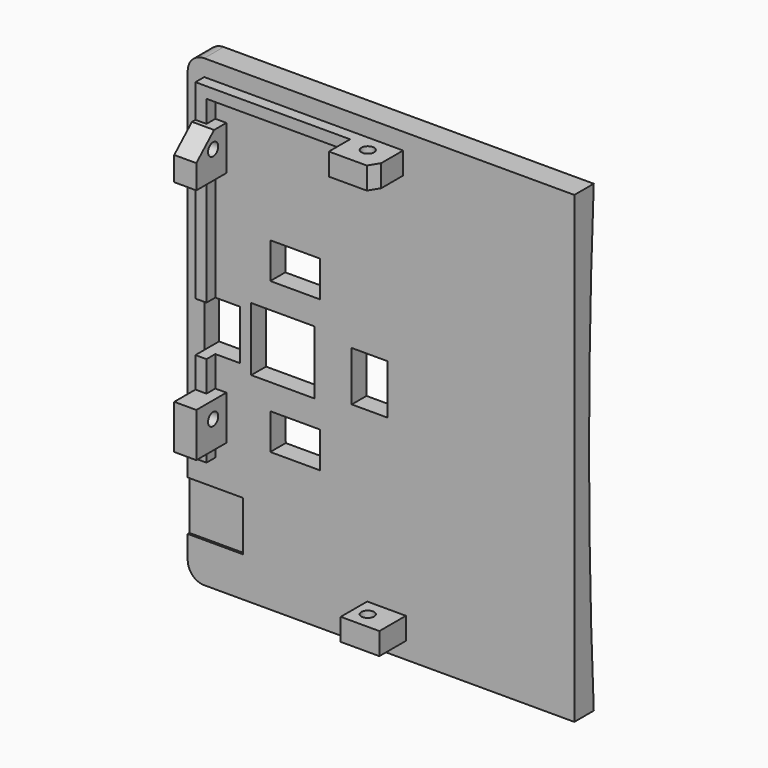
from build123d import *

# Parameters (mm, degrees)
SKETCH009_W             = 84
SKETCH009_H             = 70
PAD002_DEPTH            = 2
SKETCH010_W             = 2
SKETCH010_H             = 7
PAD003_DEPTH            = 2
SKETCH012_W             = 8
SKETCH012_H             = 6.8
PAD004_DEPTH            = 4
SKETCH013_W             = 7
SKETCH013_H             = 6
PAD005_DEPTH            = 4
SKETCH011_W             = 8
SKETCH011_H             = 6.8
PAD006_DEPTH            = 4
SKETCH014_R             = 1.15
POCKET002_DEPTH         = 81.001
SKETCH016_R             = 1.15
POCKET003_DEPTH         = 8.501
SKETCH018_W             = 11.5
SKETCH018_H             = 11.5
POCKET004_DEPTH         = 5
POCKET005_DEPTH         = 5
POCKET006_DEPTH         = 5
SKETCH022_W             = 9
SKETCH022_H             = 10
POCKET007_DEPTH         = 0.4
FILLET_R                = 3
BODY002_PITCH_ANGLE     = -90
BODY002_PLACEMENT_ANGLE = 90
PAD001_DEPTH            = 35
SKETCH007_W             = 11.5
SKETCH007_H             = 11.5
POCKET001_DEPTH         = 13
FILLET001_R             = 3
SKETCH025_W             = 6.5
SKETCH025_H             = 9
SKETCH025_W_2           = 9
SKETCH025_H_2           = 6.5
POCKET008_DEPTH         = 8


with BuildPart() as back:
    # Sketch009 → Pad002 (new body)
    with BuildSketch(Plane.XY):
        Rectangle(SKETCH009_W, SKETCH009_H)
    extrude(amount=PAD002_DEPTH)

    # Sketch010 (on Face6 of Pad002) → Pad003 (join)
    with BuildSketch(Plane.XY.offset(2)):
        with Locations((-38, -1)):
            Rectangle(SKETCH010_W, SKETCH010_H)
        Polygon((-21, 32), (39, 32), (39, -4), (37, -4), (37, 30), (-21, 30), align=None)
    extrude(amount=PAD003_DEPTH)

    # Sketch012 (on Face15 of Pad003) → Pad004 (join)
    with BuildSketch(Plane.YZ.offset(39)):
        with Locations((0, 5.4)):
            Rectangle(SKETCH012_W, SKETCH012_H)
    extrude(amount=-PAD004_DEPTH)

    # Sketch013 (on Face9 of Pad004) → Pad005 (join)
    with BuildSketch(Plane(origin=(-39, 0, 0), x_dir=(0, -1, 0), z_dir=(-1, 0, 0))):
        with Locations((1, 5)):
            Rectangle(SKETCH013_W, SKETCH013_H)
    extrude(amount=-PAD005_DEPTH)

    # Sketch011 (on Face16 of Pad003) → Pad006 (join)
    with BuildSketch(Plane(origin=(0, 32, 0), x_dir=(-1, 0, 0), z_dir=(0, 1, 0))):
        with Locations((-29, 5.4)):
            Rectangle(SKETCH011_W, SKETCH011_H)
        with Locations((14, 5.4)):
            Rectangle(SKETCH011_W, SKETCH011_H)
    extrude(amount=-PAD006_DEPTH)

    # Sketch014 (on Face44 of Pad006) → Pocket002 (cut, through all)
    with BuildSketch(Plane.YZ.offset(39)):
        with Locations((0, 5)):
            Circle(SKETCH014_R)
    extrude(amount=-POCKET002_DEPTH, mode=Mode.SUBTRACT)

    # Sketch016 → Pocket003 (cut, through all)
    with BuildSketch(Plane.XZ.offset(-26.5)):
        with Locations((-13, 5)):
            Circle(SKETCH016_R)
        with Locations((30, 5)):
            Circle(SKETCH016_R)
    extrude(amount=-POCKET003_DEPTH, mode=Mode.SUBTRACT)

    # Sketch018 (on Face5 of Pocket003) → Pocket004 (cut)
    with BuildSketch(Plane.XY.offset(2)):
        with Locations((0, 17.75)):
            Rectangle(SKETCH018_W, SKETCH018_H)
    extrude(amount=-POCKET004_DEPTH, mode=Mode.SUBTRACT)

    # Sketch019 (on Face31 of Pocket004) → Pocket005 (cut)
    with BuildSketch(Plane.XZ.offset(-28)):
        Polygon((29.125944, 9.042901), (33.258869, 4.499726), (33.258869, 9.042901), align=None)
    extrude(amount=-POCKET005_DEPTH, mode=Mode.SUBTRACT)

    # Sketch020 (on Face36 of Pocket005) → Pocket006 (cut)
    with BuildSketch(Plane(origin=(35, 0, 0), x_dir=(0, -1, 0), z_dir=(-1, 0, 0))):
        Polygon((2.77547, 8.938441), (6.386171, 3.079567), (6.386171, 8.938441), align=None)
    extrude(amount=-POCKET006_DEPTH, mode=Mode.SUBTRACT)

    # Sketch022 (on Face5 of Pocket005) → Pocket007 (cut)
    with BuildSketch(Plane.XY.offset(2)):
        with Locations((-30.3, 30)):
            Rectangle(SKETCH022_W, SKETCH022_H)
    extrude(amount=-POCKET007_DEPTH, mode=Mode.SUBTRACT)

    # Fillet
    fillet_edges = [back.edges().sort_by_distance(p)[0] for p in [
        (42, 35, 1),
        (-42, 35, 1),
    ]]
    fillet(fillet_edges, radius=FILLET_R)


with BuildPart() as back_1:
    # Body002 pitch: moved
    add(back.part.rotate(Axis((0, 0, 0), (0, 1, 0)), BODY002_PITCH_ANGLE))


with BuildPart() as back_2:
    # Body002 placement: moved
    add(back_1.part.rotate(Axis((0, 0, 0), (0, 0, 1)), BODY002_PLACEMENT_ANGLE))


with BuildPart() as curve:
    # Sketch006 → Pad001 (new body, symmetric)
    with BuildSketch(Plane(origin=(0, 0, 0), x_dir=(0, 0, -1), z_dir=(1, 0, 0))):
        with BuildLine():
            ThreePointArc((-42, 2.4), (0, 1.334097), (42, 2.4))
            Line((42, -0.1), (42, 2.4))
            Line((-42, -0.1), (42, -0.1))
            Line((-42, 2.4), (-42, -0.1))
        make_face()
    extrude(amount=PAD001_DEPTH, both=True)

    # Sketch007 (on Face3 of Pad001) → Pocket001 (cut)
    with BuildSketch(Plane.XZ.offset(0.1)):
        with Locations((-17.75, 0)):
            Rectangle(SKETCH007_W, SKETCH007_H)
    extrude(amount=-POCKET001_DEPTH, mode=Mode.SUBTRACT)

    # Fillet001
    fillet001_edges = [curve.edges().sort_by_distance(p)[0] for p in [
        (-35, 1.15, -42),
        (-35, 1.15, 42),
    ]]
    fillet(fillet001_edges, radius=FILLET001_R)

    # Boolean: union Back
    add(back_2.part)

    # Sketch025 (on Face32 of Boolean) → Pocket008 (cut, symmetric)
    with BuildSketch(Plane.XZ.offset(2)):
        with Locations((-28.75, 0)):
            Rectangle(SKETCH025_W, SKETCH025_H)
        with Locations((-15.55, 13.625)):
            Rectangle(SKETCH025_W_2, SKETCH025_H_2)
        with Locations((-2.05, 0)):
            Rectangle(SKETCH025_W, SKETCH025_H)
        with Locations((-15.55, -13.625)):
            Rectangle(SKETCH025_W_2, SKETCH025_H_2)
    extrude(amount=POCKET008_DEPTH, both=True, mode=Mode.SUBTRACT)


solid = curve.part
